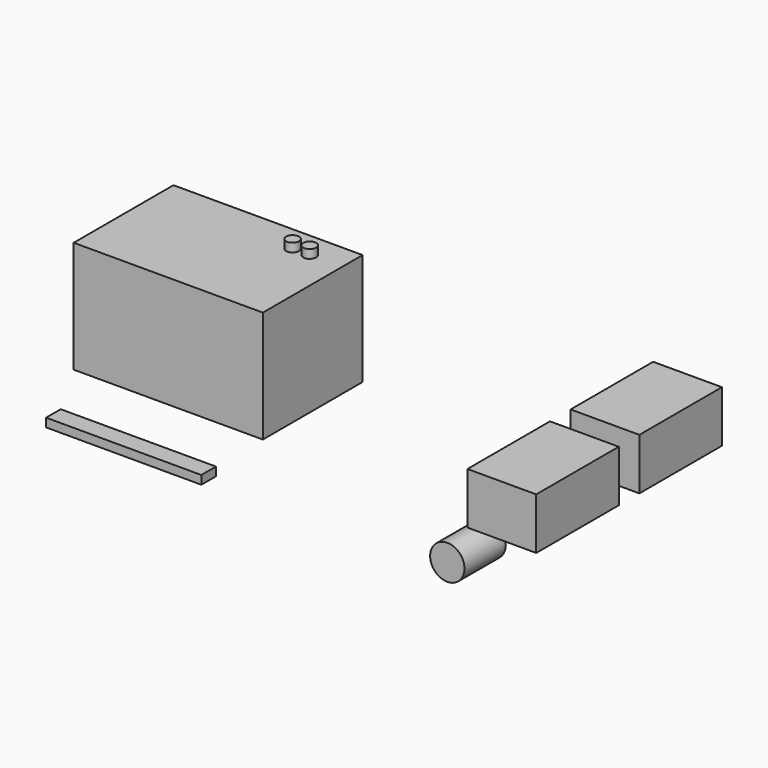
from build123d import *

# Parameters (mm, degrees)
F0_W      = 558.8
F0_H      = 368.3
F0_W_2    = 508
F0_H_2    = 317.5
F1_DEPTH  = 304.8
F2_W      = 558.8
F2_H      = 368.3
F2_W_2    = 508
F2_H_2    = 317.5
F2_R      = 19.05
F3_DEPTH  = 25.4
F4_DEPTH  = 50.8
F5_R      = 50.8
F6_DEPTH  = 152.4
F7_W      = 458.734035
F7_H      = 54.067135
F8_DEPTH  = 25.4
F9_W      = 203.2
F9_H      = 304.8
F10_DEPTH = 152.4


with BuildPart() as f1:
    # F0 (on Top) → F1 (new body)
    with BuildSketch(Plane.XY):
        with Locations((20.925171, -25.031337)):
            Rectangle(F0_W, F0_H)
        with Locations((20.925171, -25.031337)):
            Rectangle(F0_W_2, F0_H_2, mode=Mode.SUBTRACT)
    extrude(amount=F1_DEPTH)

    # F2 (on face) → F3 (join)
    with BuildSketch(Plane.XY.offset(304.8)):
        with Locations((20.925171, -25.031337)):
            Rectangle(F2_W, F2_H)
        with Locations((20.925171, -25.031337)):
            Rectangle(F2_W_2, F2_H_2, mode=Mode.SUBTRACT)
        with Locations((20.925171, -25.031337)):
            Rectangle(F2_W_2, F2_H_2)
        with Locations((154.323603, 82.918663)):
            Circle(F2_R, mode=Mode.SUBTRACT)
        with Locations((205.123603, 82.918663)):
            Circle(F2_R, mode=Mode.SUBTRACT)
    extrude(amount=F3_DEPTH)

    # F2 (on face) → F4 (join)
    with BuildSketch(Plane.XY.offset(304.8)):
        with Locations((154.323603, 82.918663)):
            Circle(F2_R)
        with Locations((205.123603, 82.918663)):
            Circle(F2_R)
    extrude(amount=F4_DEPTH)


with BuildPart() as f6:
    # F5 (on Front) → F6 (new body)
    with BuildSketch(Plane.XZ):
        with Locations((799.884975, -179.831937)):
            Circle(F5_R)
    extrude(amount=F6_DEPTH)


with BuildPart() as f8:
    # F7 (on Top) → F8 (new body)
    with BuildSketch(Plane.XY):
        with Locations((101.240247, -447.184562)):
            Rectangle(F7_W, F7_H)
    extrude(amount=F8_DEPTH)


with BuildPart() as f10:
    # F9 (on Top) → F10 (new body)
    with BuildSketch(Plane.XY):
        with Locations((1045.156687, -105.237206)):
            Rectangle(F9_W, F9_H)
    extrude(amount=F10_DEPTH)


with BuildPart() as f11_1:
    # F11: copy of F10
    add(f10.part.moved(Location((0, 381, 0))))


solid = Compound([f1.part, f6.part, f8.part, f10.part, f11_1.part])
